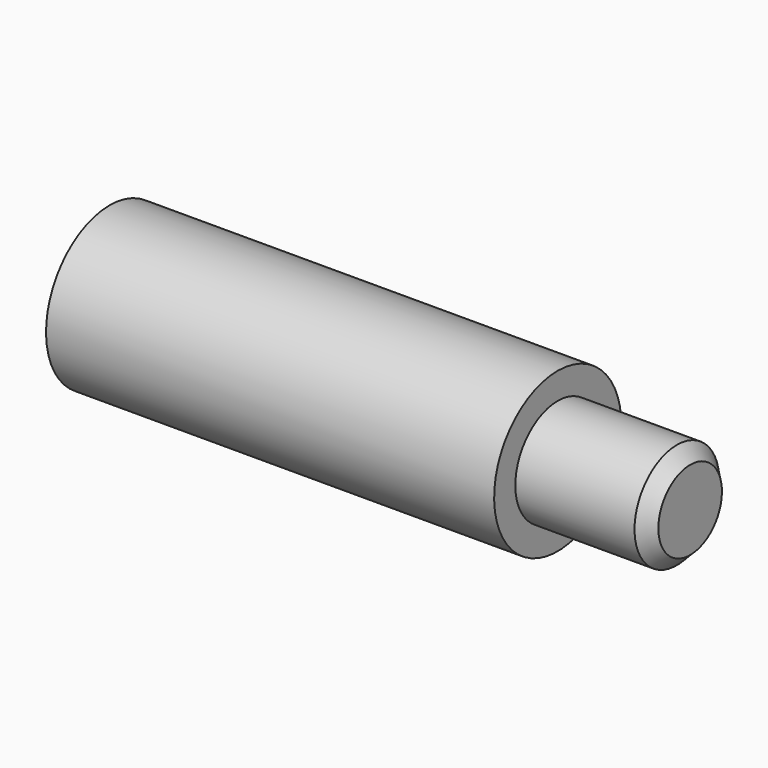
from build123d import *

# Parameters (mm, degrees)
F2_SIZE = 1


with BuildPart() as f1:
    # F0 (on Front) → F1 (revolve)
    with BuildSketch(Plane.XZ):
        with BuildLine():
            Line((-35, 0), (10, 0))
            Line((10, 0), (10, 4))
            Line((10, 4), (0, 4))
            Line((0, 4), (0, 6))
            Line((0, 6), (-33.832397, 6))
            ThreePointArc((-33.832397, 6), (-34.705387, 3.056276), (-35, 0))
        make_face()
    revolve(axis=Axis((-12.5, 0, 0), (1, 0, 0)))

    # F2
    f2_edges = [f1.edges().sort_by_distance(p)[0] for p in [
        (10, 0, -4),
    ]]
    chamfer(f2_edges, length=F2_SIZE)


solid = f1.part
